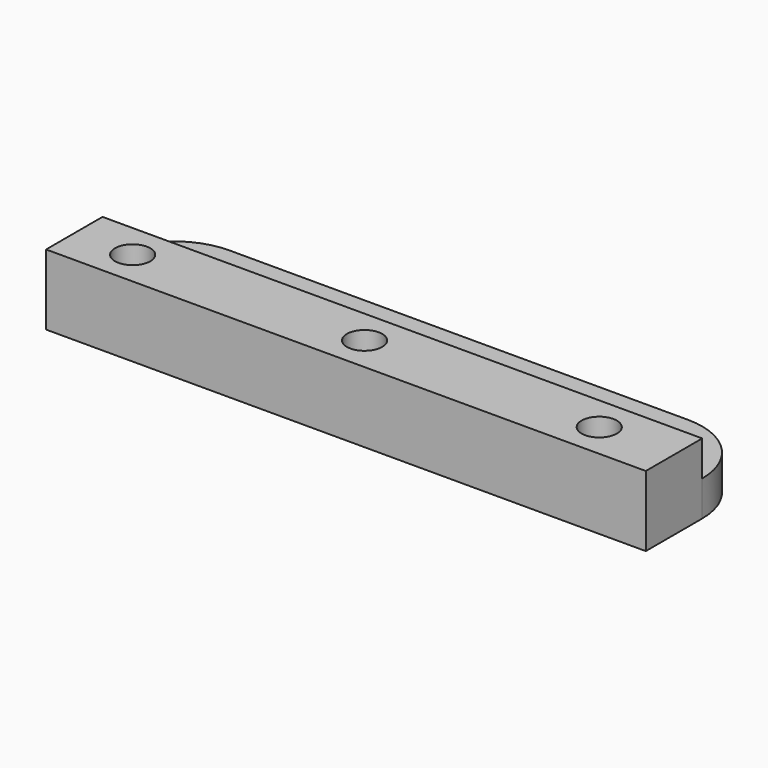
from build123d import *

# Parameters (mm, degrees)
F1_DEPTH = 6.35
F2_W     = 107.95
F2_H     = 12.7
F3_DEPTH = 6.35
F4_R     = 3.175
F5_DEPTH = 25.4


with BuildPart() as f1:
    # F0 (on Top) → F1 (new body)
    with BuildSketch(Plane.XY):
        with BuildLine():
            Line((0, 12.7), (0, 0))
            Line((0, 0), (107.95, 0))
            Line((107.95, 0), (107.95, 12.7))
            ThreePointArc((107.95, 12.7), (104.230256, 21.680256), (95.25, 25.4))
            Line((95.25, 25.4), (12.7, 25.4))
            ThreePointArc((12.7, 25.4), (3.719744, 21.680256), (0, 12.7))
        make_face()
    extrude(amount=F1_DEPTH)

    # F2 (on face) → F3 (join)
    with BuildSketch(Plane.XY.offset(6.35)):
        with Locations((53.975, 6.35)):
            Rectangle(F2_W, F2_H)
    extrude(amount=F3_DEPTH)

    # F4 (on face) → F5 (cut)
    with BuildSketch(Plane.XY.offset(12.7)):
        with Locations((10.503207, 6.35)):
            Circle(F4_R)
        with Locations((52.250076, 6.35)):
            Circle(F4_R)
        with Locations((94.490955, 6.35)):
            Circle(F4_R)
    extrude(amount=-F5_DEPTH, mode=Mode.SUBTRACT)


solid = f1.part
